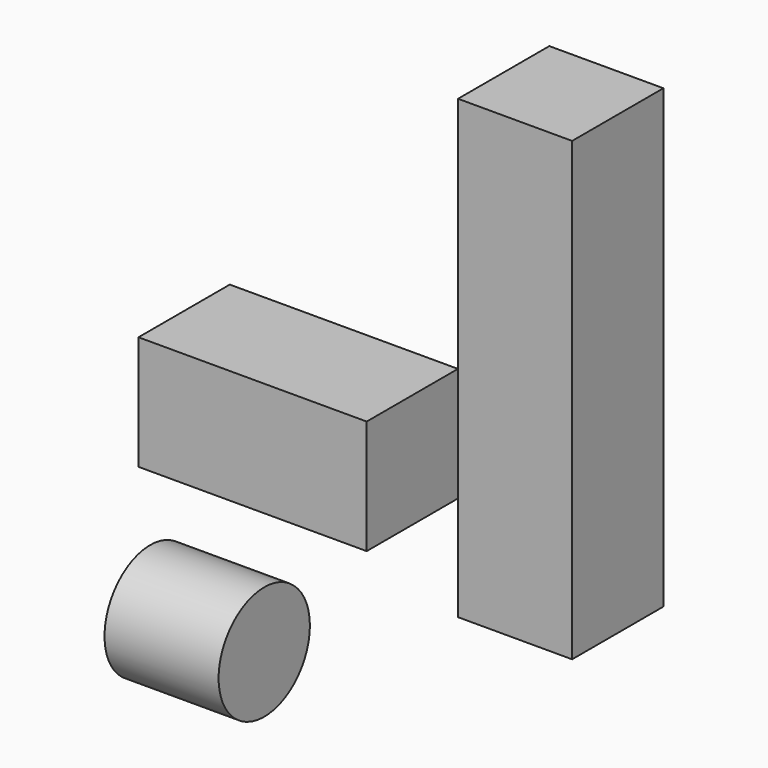
from build123d import *

# Parameters (mm, degrees)
F0_W     = 50.8
F0_H     = 25.4
F1_DEPTH = 25.4
F2_W     = 25.4
F2_H     = 25.4
F3_DEPTH = 101.6
F4_R     = 12.7
F5_DEPTH = 25.4
F6_DEPTH = 25.4


with BuildPart() as f1:
    # F0 (on Front) → F1 (new body)
    with BuildSketch(Plane.XZ):
        with Locations((-1.712927, 52.017765)):
            Rectangle(F0_W, F0_H)
    extrude(amount=F1_DEPTH)


with BuildPart() as f3:
    # F2 (on Top) → F3 (new body)
    with BuildSketch(Plane.XY):
        with Locations((17.131958, 36.785443)):
            Rectangle(F2_W, F2_H)
    extrude(amount=F3_DEPTH)


with BuildPart() as f5:
    # F4 (on Right) → F5 (new body)
    with BuildSketch(Plane.YZ):
        with Locations((-56.045547, 32.573104)):
            Circle(F4_R)
    extrude(amount=F5_DEPTH)

    # F4 (on Right) → F6 (join)
    with BuildSketch(Plane.YZ):
        with Locations((-56.045547, 32.573104)):
            Circle(F4_R)
    extrude(amount=F6_DEPTH)


solid = Compound([f1.part, f3.part, f5.part])
